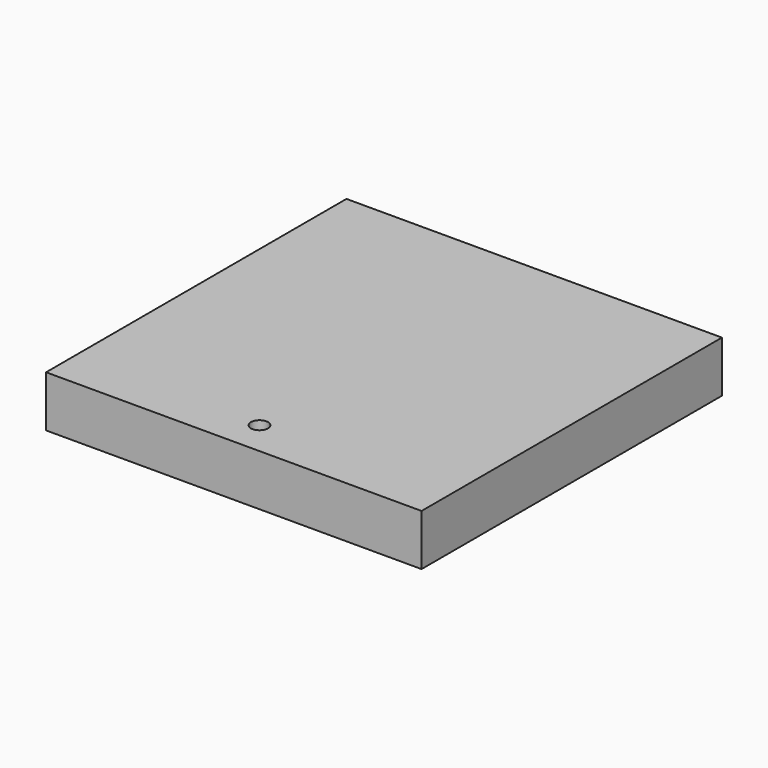
from build123d import *

# Parameters (mm, degrees)
F1_DEPTH = 19.05


with BuildPart() as f1:
    # F0 (on Top) → F1 (new body)
    with BuildSketch(Plane.XY):
        with BuildLine():
            ThreePointArc((3.175, -56.6928), (-2.245064, -54.447736), (0, -59.8678))
            ThreePointArc((0, -59.8678), (2.245064, -58.937864), (3.175, -56.6928))
        make_face()
        Polygon((70.459597, -69.3928), (70.459597, 70.3072), (-69.240403, 70.3072), (-69.240403, -69.3928), (0, -69.3928), align=None)
        with BuildLine():
            ThreePointArc((3.175, -56.6928), (2.245064, -58.937864), (0, -59.8678))
            ThreePointArc((0, -59.8678), (-2.245064, -54.447736), (3.175, -56.6928))
        make_face(mode=Mode.SUBTRACT)
    extrude(amount=F1_DEPTH)


solid = f1.part
